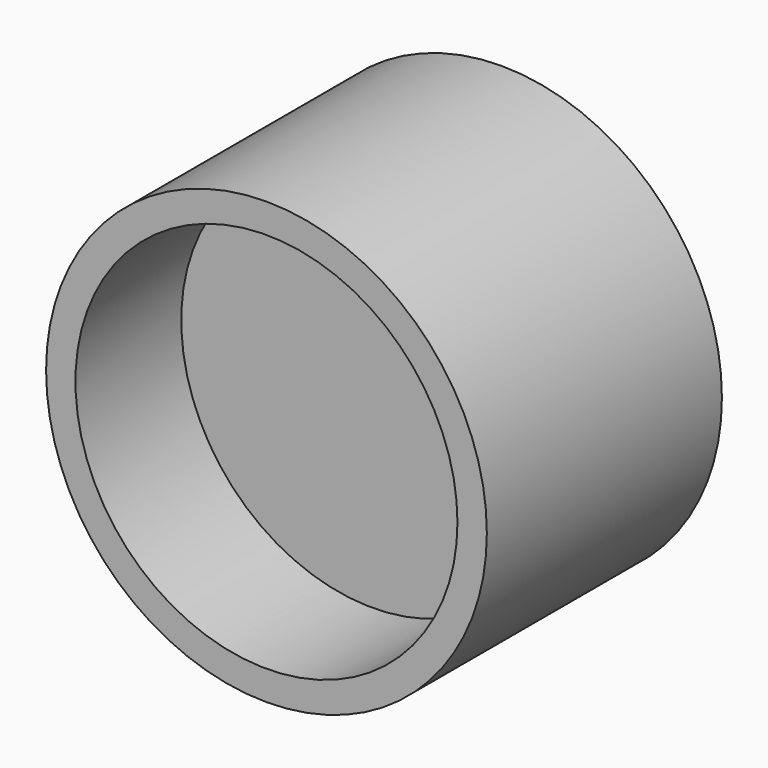
from build123d import *

# Parameters (mm, degrees)
F0_R     = 15
F1_DEPTH = 20
F2_R     = 13
F3_DEPTH = 9
F4_R     = 13
F5_DEPTH = 9


with BuildPart() as f1:
    # F0 (on Front) → F1 (new body)
    with BuildSketch(Plane.XZ):
        Circle(F0_R)
    extrude(amount=-F1_DEPTH)

    # F2 (on face) → F3 (cut)
    with BuildSketch(Plane.XZ):
        Circle(F2_R)
    extrude(amount=-F3_DEPTH, mode=Mode.SUBTRACT)

    # F4 (on face) → F5 (cut)
    with BuildSketch(Plane(origin=(0, 20, 0), x_dir=(-1, 0, 0), z_dir=(0, 1, 0))):
        Circle(F4_R)
    extrude(amount=-F5_DEPTH, mode=Mode.SUBTRACT)


solid = f1.part
